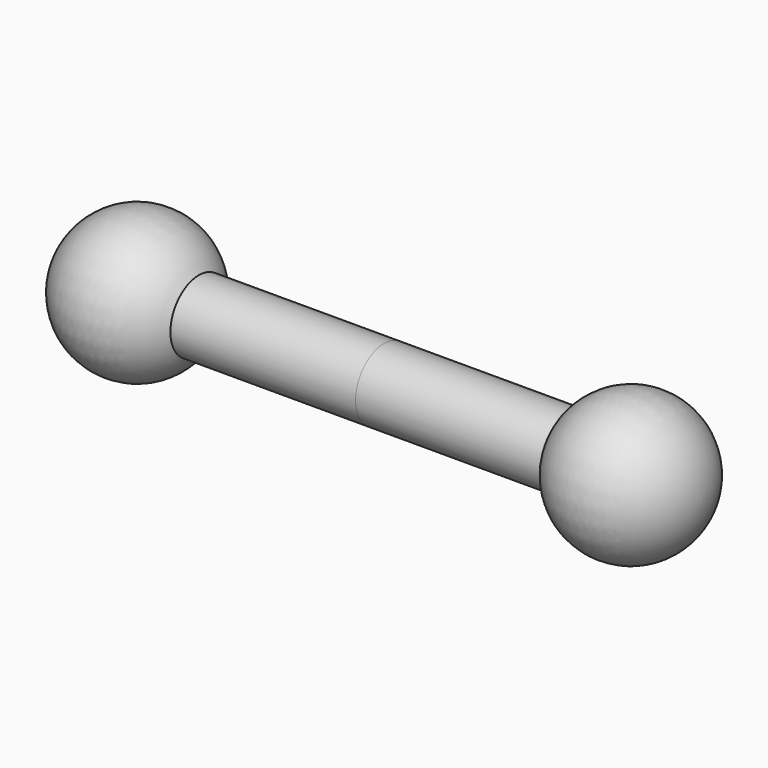
from build123d import *


with BuildPart() as f1:
    # F0 (on Top) → F1 (revolve)
    with BuildSketch(Plane.XY):
        with BuildLine():
            Line((1.733013, 0.25), (0.433013, 0.25))
            ThreePointArc((0.433013, 0.25), (-0.12941, 0.482963), (-0.5, 0))
            Line((-0.5, 0), (0, 0))
            Line((0, 0), (0.5, 0))
            Line((0.5, 0), (1.733013, 0))
            Line((1.733013, 0), (1.733013, 0.25))
        make_face()
    revolve(axis=Axis((0.25, 0, 0), (1, 0, 0)))

    # F2: F1 across face


with BuildPart() as f1_1:
    add(f1.part)
    add(f1.part.mirror(Plane.YZ.offset(1.733013)))


solid = f1_1.part
